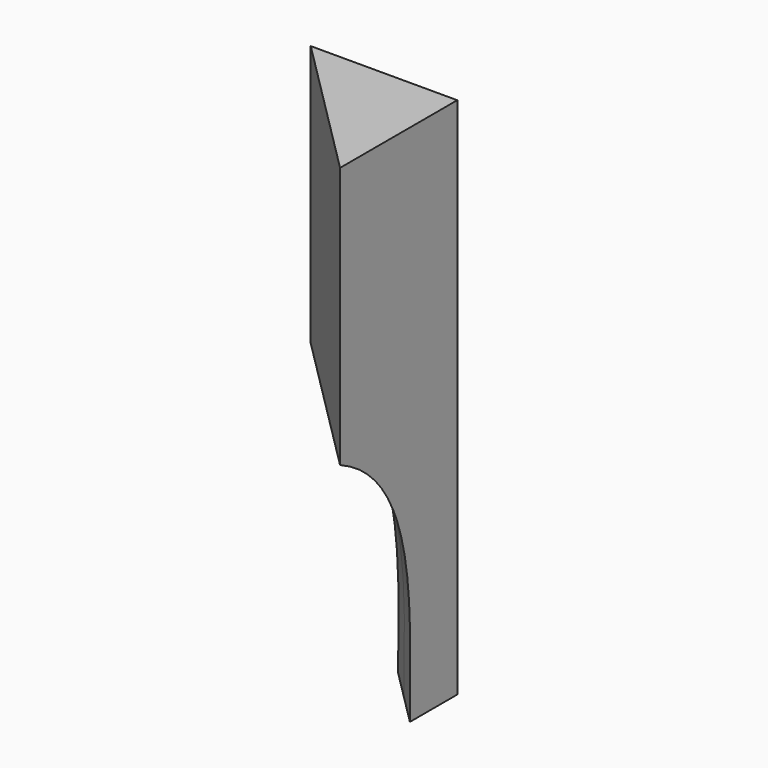
from build123d import *

# Parameters (mm, degrees)
F1_DEPTH      = 250
F5_DEPTH      = 49.4984746831
F5_DEPTH_BACK = 49.4984746831


with BuildPart() as f1:
    # F0 (on Top) → F1 (new body)
    with BuildSketch(Plane.XY):
        Polygon((34.8234286904, 36.4224883106), (-35.1765713096, 36.4224883106), (34.8234286904, -33.5775116894), align=None)
    extrude(amount=F1_DEPTH)

    # F4 (on 3pt) → F5 (cut, two sides)
    with BuildSketch(Plane(origin=(-0.7995298101, 0.7995298101, 0), x_dir=(-0.7071067812, -0.7071067812, 0), z_dir=(-0.7071067812, 0.7071067812, 0))) as f5_sk:
        with BuildLine():
            add(Edge.make_bspline(
                [(-30.3784710433, 0), (-30.4320504985, 44.6738531583), (-38.2778981301, 163.740215292), (106.4104230232, 129.7057490514), (47.7324947715, 0)],
                knots=[0, 0, 0, 0, 0.4945841784, 1, 1, 1, 1], degree=3))
            Line((-30.3784710433, 0), (47.7324947715, 0))
        make_face()
    extrude(amount=-F5_DEPTH, mode=Mode.SUBTRACT)
    extrude(f5_sk.sketch, amount=F5_DEPTH_BACK, mode=Mode.SUBTRACT)


solid = f1.part
